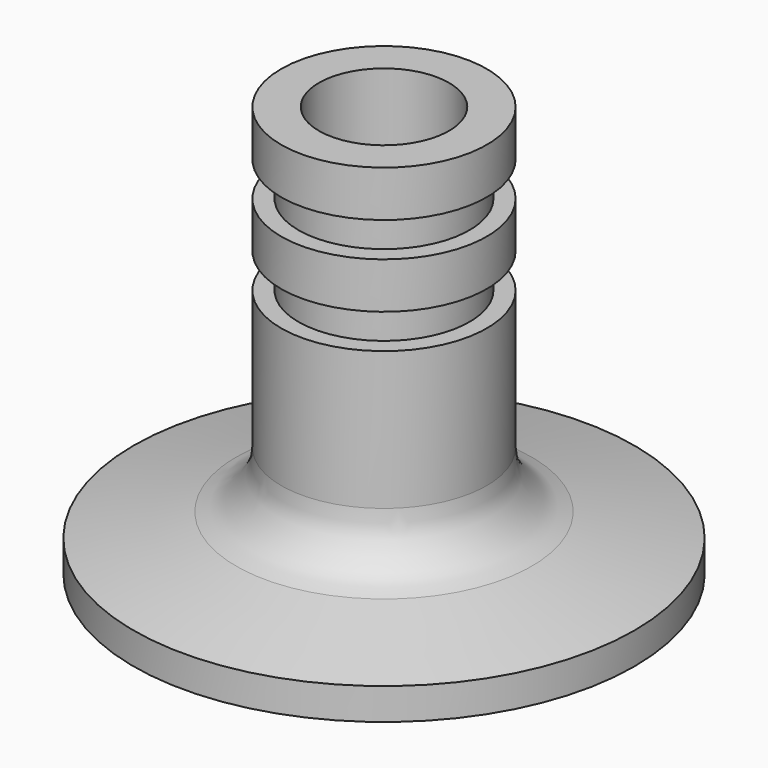
from build123d import *

# Parameters (mm, degrees)
F3_R = 5


with BuildPart() as f2:
    # F0 (on Front) → F2 (revolve)
    with BuildSketch(Plane.XZ):
        Polygon((-21.700509, 0), (0, 0), (0, 2), (-17.641513, 2), (-17.641513, 2.741117), (-5.637454, 5.45632), (-5.637454, 35.634518), (-8.90863, 35.634518), (-8.90863, 31.634518), (-7.40863, 31.634518), (-7.40863, 28.634518), (-8.90863, 28.634518), (-8.90863, 24.634518), (-7.40863, 24.634518), (-7.40863, 21.634518), (-8.90863, 21.634518), (-8.90863, 5.634518), (-21.700509, 2.741117), align=None)
    revolve(axis=Axis((0, 0, 18.831697), (0, 0, -1)))

    # F3
    f3_edges = [f2.edges().sort_by_distance(p)[0] for p in [
        (8.90863, 0, 5.634518),
    ]]
    fillet(f3_edges, radius=F3_R)


solid = f2.part
